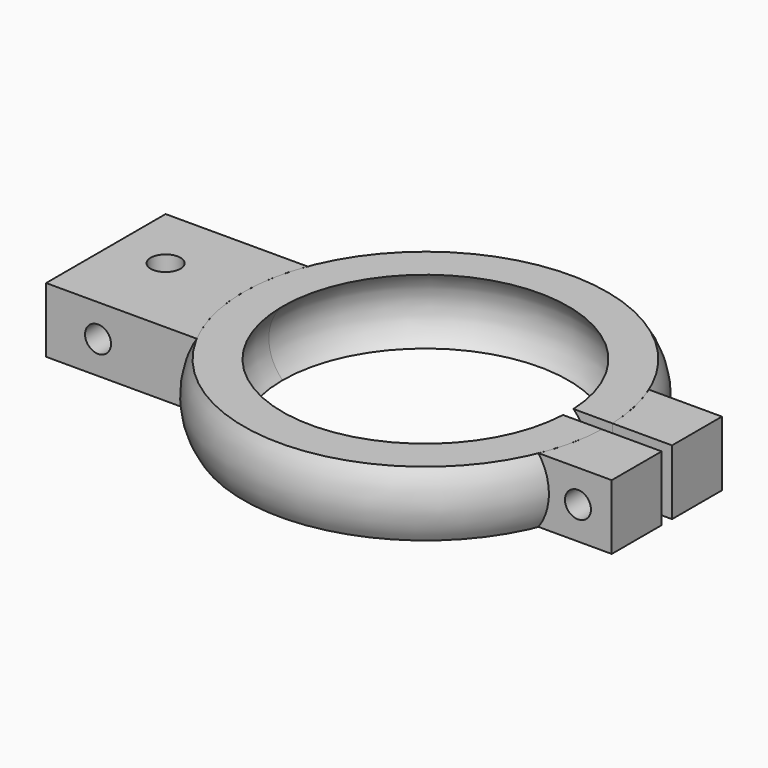
from build123d import *

# Parameters (mm, degrees)
F2_R      = 1.15
F3_DEPTH  = 5
F4_R      = 1
F5_DEPTH  = 6
F6_R      = 1
F7_DEPTH  = 25
F8_R      = 1
F9_DEPTH  = 25
F11_DEPTH = 25


with BuildPart() as f1:
    # F0 (on Front) → F1 (revolve)
    with BuildSketch(Plane.XZ):
        with BuildLine():
            ThreePointArc((-4.645441286, 1.0585224686), (-5.700841589, 3.5585224686), (-4.645441286, 6.0585224686))
            ThreePointArc((-4.645441286, 6.0585224686), (-7.145441286, 3.5585224686), (-4.645441286, 1.0585224686))
        make_face()
        with BuildLine():
            ThreePointArc((-4.645441286, 1.0585224686), (-7.145441286, 3.5585224686), (-4.645441286, 6.0585224686))
            Line((-4.645441286, 6.0585224686), (-7.645441286, 6.0585224686))
            Line((-7.645441286, 6.0585224686), (-7.645441286, 1.0585224686))
            Line((-7.645441286, 1.0585224686), (-4.645441286, 1.0585224686))
        make_face()
        with BuildLine():
            Line((-7.645441286, 1.0585224686), (-7.645441286, 6.0585224686))
            ThreePointArc((-7.645441286, 6.0585224686), (-8.3932641999, 3.5585224686), (-7.645441286, 1.0585224686))
        make_face()
    revolve(axis=Axis((6.354558714, 0, 2.7198808384), (0, 0, -1)))

    # F8 (on face) → F9 (cut)
    with BuildSketch(Plane(origin=(0, 5.3, 0), x_dir=(-1, 0, 0), z_dir=(0, 1, 0))):
        with Locations((-22.3337602671, 3.5585224686)):
            Circle(F8_R)
    extrude(amount=-F9_DEPTH, mode=Mode.SUBTRACT)

    # F10 (on face) → F11 (cut)
    with BuildSketch(Plane.XY.offset(6.0585224686)):
        with BuildLine():
            ThreePointArc((20.354558714, 0), (20.3523256808, 0.250039882), (20.3456272937, 0.5))
            Line((20.3456272937, 0.5), (17.3431892019, 0.5))
            ThreePointArc((17.3431892019, 0.5), (17.3517159687, 0.2500646245), (17.354558714, 0))
            ThreePointArc((17.354558714, 0), (17.3517159687, -0.2500646245), (17.3431892019, -0.5))
            Line((17.3431892019, -0.5), (20.3456272937, -0.5))
            ThreePointArc((20.3456272937, -0.5), (20.3523256808, -0.250039882), (20.354558714, 0))
        make_face()
        with BuildLine():
            Line((21.9472598002, -0.5), (21.9472598002, 0.5))
            Line((21.9472598002, 0.5), (20.3456272937, 0.5))
            ThreePointArc((20.3456272937, 0.5), (20.3523256808, 0.250039882), (20.354558714, 0))
            ThreePointArc((20.354558714, 0), (20.3523256808, -0.250039882), (20.3456272937, -0.5))
            Line((20.3456272937, -0.5), (21.9472598002, -0.5))
        make_face()
    extrude(amount=-F11_DEPTH, mode=Mode.SUBTRACT)


with BuildPart() as f3:
    # F2 (on face) → F3 (new body)
    with BuildSketch(Plane.XY.offset(6.0585224686)):
        with BuildLine():
            Line((-17.645441286, -6.5), (-6.0450380536, -6.5))
            ThreePointArc((-6.0450380536, -6.5), (-7.6212376453, -0.8228706604), (-6.7221381166, 5))
            Line((-6.7221381166, 5), (-17.645441286, 5))
            Line((-17.645441286, 5), (-17.645441286, -6.5))
        make_face()
        with Locations((-13.645441286, 0)):
            Circle(F2_R, mode=Mode.SUBTRACT)
    extrude(amount=-F3_DEPTH)

    # F4 (on face) → F5 (cut)
    with BuildSketch(Plane.XZ.offset(6.5)):
        with Locations((-13.645441286, 3.5585224686)):
            Circle(F4_R)
    extrude(amount=-F5_DEPTH, mode=Mode.SUBTRACT)


with BuildPart() as f3b:
    # F2 (on face) → F3, piece 2 (new body)
    with BuildSketch(Plane.XY.offset(6.0585224686)):
        with BuildLine():
            Line((24.9337602671, -0.5), (20.3456272937, -0.5))
            ThreePointArc((20.3456272937, -0.5), (20.0411651974, -2.945641351), (19.3125678204, -5.3))
            Line((19.3125678204, -5.3), (24.9337602671, -5.3))
            Line((24.9337602671, -5.3), (24.9337602671, -0.5))
        make_face()
    extrude(amount=-F3_DEPTH)


with BuildPart() as f3c:
    # F2 (on face) → F3, piece 3 (new body)
    with BuildSketch(Plane.XY.offset(6.0585224686)):
        with BuildLine():
            ThreePointArc((19.3125678204, 5.3), (20.0411651974, 2.945641351), (20.3456272937, 0.5))
            Line((20.3456272937, 0.5), (24.9337602671, 0.5))
            Line((24.9337602671, 0.5), (24.9337602671, 5.3))
            Line((24.9337602671, 5.3), (19.3125678204, 5.3))
        make_face()
    extrude(amount=-F3_DEPTH)


with BuildPart() as f7_tool:
    # F6 (on face) → F7 (new body)
    with BuildSketch(Plane.XZ.offset(5.3)):
        with Locations((22.3337602671, 3.5585224686)):
            Circle(F6_R)
    extrude(amount=-F7_DEPTH)


with BuildPart() as f3b_1:
    add(f3b.part)

    # F7: cut by f7_tool
    add(f7_tool.part, mode=Mode.SUBTRACT)


with BuildPart() as f3c_1:
    add(f3c.part)

    # F7: cut by f7_tool
    add(f7_tool.part, mode=Mode.SUBTRACT)


solid = Compound([f1.part, f3.part, f3b_1.part, f3c_1.part])
